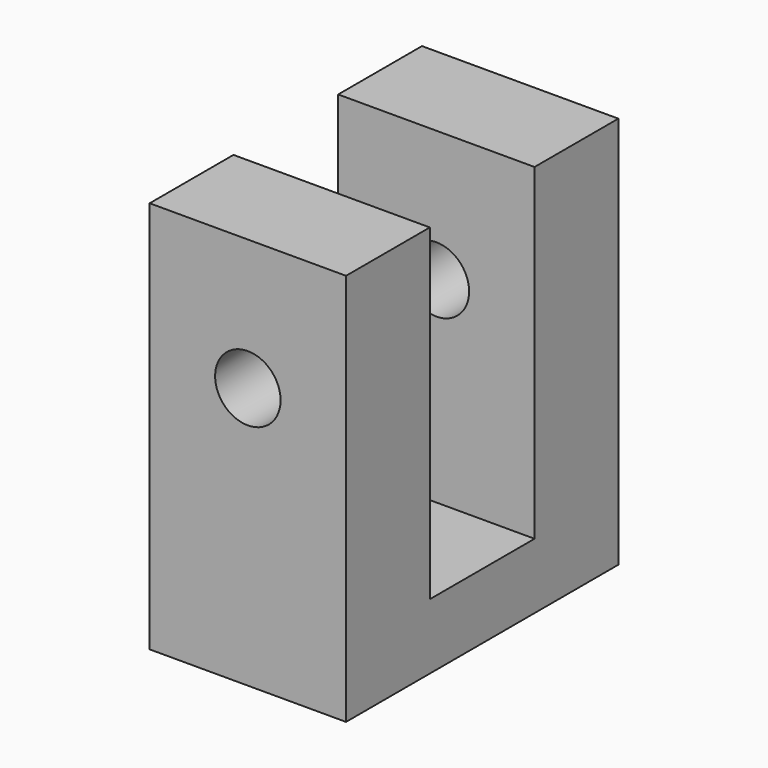
from build123d import *

# Parameters (mm, degrees)
F1_DEPTH = 19.05
F3_D     = 6.35
F5_D     = 6.35
F5_DEPTH = 12.7
F5_TIP   = 1.9077324654


with BuildPart() as f1:
    # F0 (on Right) → F1 (new body)
    with BuildSketch(Plane.YZ):
        Polygon((0, 38.1), (0, 0), (33.02, 0), (33.02, 38.1), (22.86, 38.1), (22.86, 6.35), (10.16, 6.35), (10.16, 38.1), align=None)
    extrude(amount=F1_DEPTH)

    # F3 (through all)
    with Locations(Plane(origin=(0, 33.02, 0), x_dir=(-1, 0, 0), z_dir=(0, 1, 0))):
        with Locations((-9.5250001177, 25.4)):
            Hole(F3_D / 2)

    # F5
    with Locations(Plane(origin=(0, 0, 0), x_dir=(1, 0, 0), z_dir=(0, 0, -1))):
        with Locations((12.7, -5.08), (12.7, -27.94)):
            Hole(F5_D / 2, depth=F5_DEPTH)
            with Locations((0, 0, -(F5_DEPTH + F5_TIP / 2))):  # 118° drill point
                Cone(0, F5_D / 2, F5_TIP, mode=Mode.SUBTRACT)


solid = f1.part
